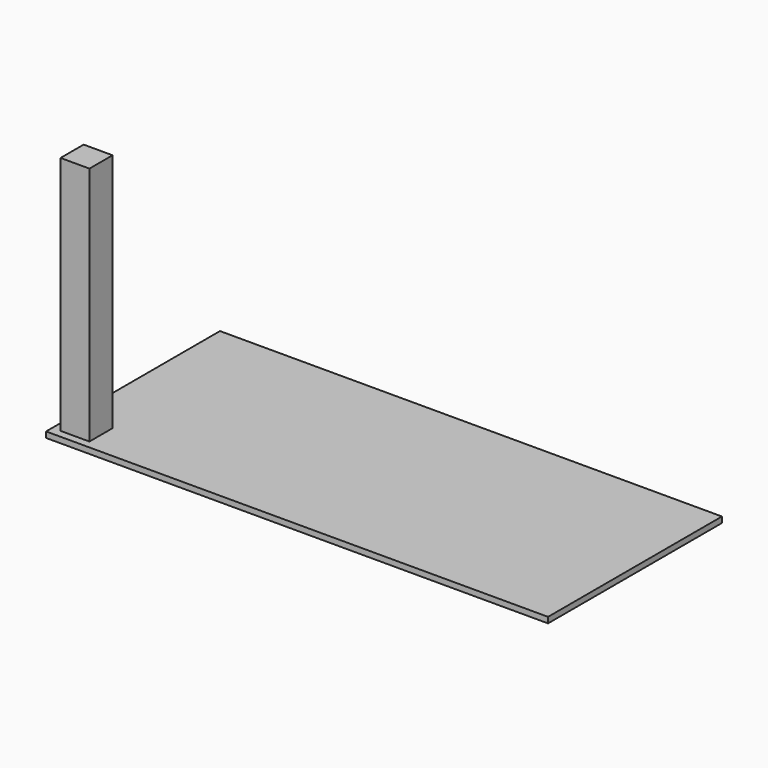
from build123d import *

# Parameters (mm, degrees)
F0_W     = 155.447993
F0_H     = 1.789043
F1_DEPTH = 67.31
F2_W     = 8.945219
F2_H     = 8.945216
F3_DEPTH = 76.2


with BuildPart() as f1:
    # F0 (on Front) → F1 (new body)
    with BuildSketch(Plane.XZ):
        with Locations((22.661214, 31.606434)):
            Rectangle(F0_W, F0_H)
    extrude(amount=F1_DEPTH)

    # F2 (on face) → F3 (join)
    with BuildSketch(Plane(origin=(0, 0, 30.711913), x_dir=(1, 0, 0), z_dir=(0, 0, -1))):
        with Locations((-48.039135, 60.429914)):
            Rectangle(F2_W, F2_H)
    extrude(amount=-F3_DEPTH)


solid = f1.part
